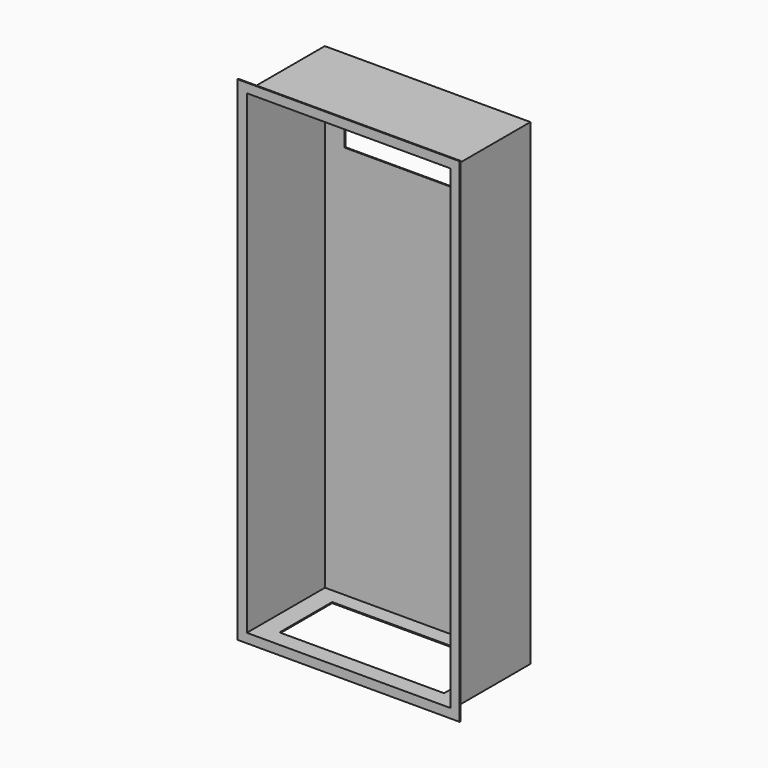
from build123d import *

# Parameters (mm, degrees)
F0_W     = 304.8
F0_H     = 1473.2
F1_DEPTH = 317.5
F2_T     = -3.175
F3_W     = 685.8
F3_H     = 1524
F3_W_2   = 628.65
F3_H_2   = 1466.85
F4_DEPTH = 3.175
F5_W     = 508
F5_H     = 203.2
F6_DEPTH = 304.801
F7_W     = 508
F7_H     = 203.2
F8_DEPTH = 3.175


with BuildPart() as f1:
    # F0 (on Right) → F1 (new body, symmetric)
    with BuildSketch(Plane.YZ):
        Rectangle(F0_W, F0_H)
    extrude(amount=F1_DEPTH, both=True)

    # F2
    f2_openings = [f1.faces().sort_by_distance(p)[0] for p in [
        (0, -152.4, 0),
    ]]
    offset(amount=F2_T, openings=f2_openings)

    # F3 (on face) → F4 (join)
    with BuildSketch(Plane.XZ.offset(152.4)):
        Rectangle(F3_W, F3_H)
        Rectangle(F3_W_2, F3_H_2, mode=Mode.SUBTRACT)
    extrude(amount=-F4_DEPTH)

    # F5 (on face) → F6 (cut, through all)
    with BuildSketch(Plane(origin=(0, 152.4, 0), x_dir=(-1, 0, 0), z_dir=(0, 1, 0))):
        with Locations((0, 584.2)):
            Rectangle(F5_W, F5_H)
    extrude(amount=-F6_DEPTH, mode=Mode.SUBTRACT)

    # F7 (on face) → F8 (cut, through all)
    with BuildSketch(Plane(origin=(0, 0, -736.6), x_dir=(1, 0, 0), z_dir=(0, 0, -1))):
        Rectangle(F7_W, F7_H)
    extrude(amount=-F8_DEPTH, mode=Mode.SUBTRACT)


solid = f1.part
